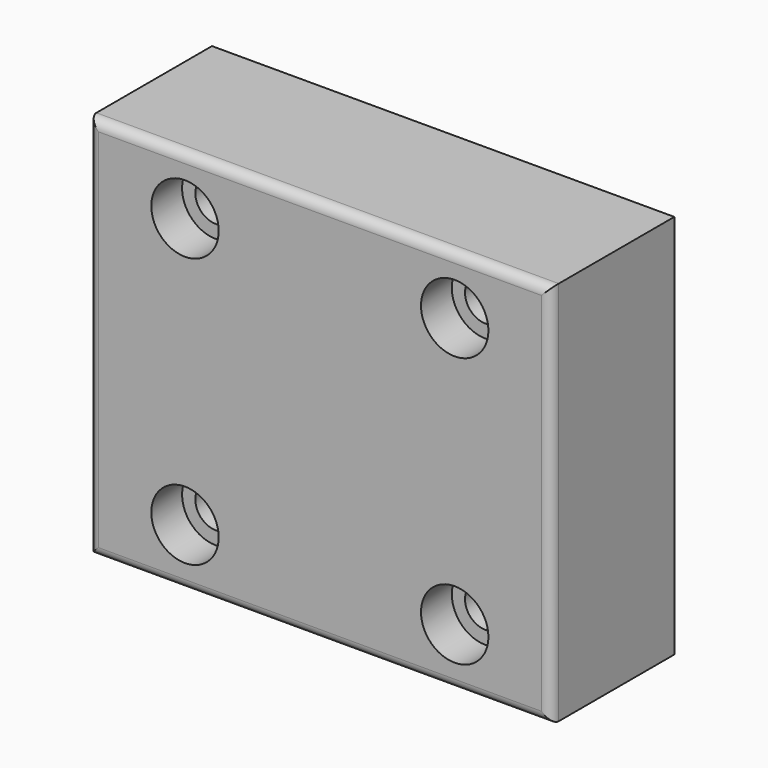
from build123d import *

# Parameters (mm, degrees)
F0_W           = 76.2
F0_H           = 63.5
F1_DEPTH       = 25.4
F3_D           = 6.7564
F3_CBORE_D     = 11.1125
F3_CBORE_DEPTH = 6.35
F4_R           = 1.5875


with BuildPart() as f1:
    # F0 (on Front) → F1 (new body)
    with BuildSketch(Plane.XZ):
        Rectangle(F0_W, F0_H)
    extrude(amount=F1_DEPTH)

    # F3 (through all)
    with Locations(Plane.XZ.offset(25.4)):
        with Locations((-22.225, 22.225), (22.225, 22.225), (22.225, -22.225), (-22.225, -22.225)):
            CounterBoreHole(F3_D / 2, F3_CBORE_D / 2, F3_CBORE_DEPTH)

    # F4
    f4_edges = [f1.edges().sort_by_distance(p)[0] for p in [
        (0, -25.4, 31.75),
        (38.1, -25.4, 0),
        (0, -25.4, -31.75),
        (-38.1, -25.4, 0),
    ]]
    fillet(f4_edges, radius=F4_R)


solid = f1.part
